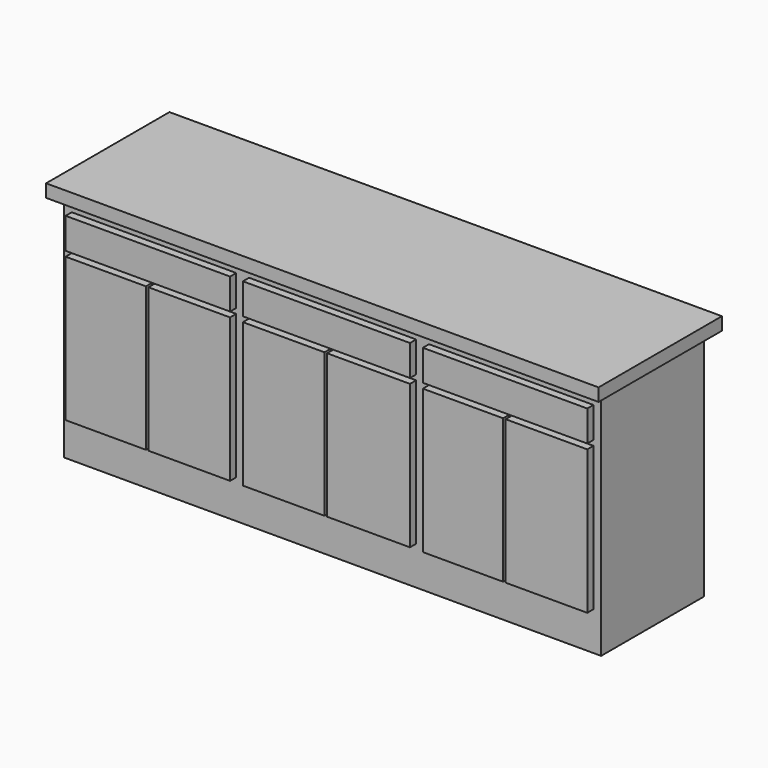
from build123d import *

# Parameters (mm, degrees)
F0_W     = 2150
F0_H     = 600
F1_DEPTH = 50
F2_W     = 2090
F2_H     = 500
F3_DEPTH = 900
F4_W     = 640
F4_H     = 120
F4_W_2   = 650
F4_W_3   = 312.5
F4_H_2   = 560
F4_W_4   = 317.5
F4_W_5   = 322.5
F5_DEPTH = 30
F6_W     = 2030
F6_H     = 900
F7_DEPTH = 200


with BuildPart() as f1:
    # F0 (on Top) → F1 (new body)
    with BuildSketch(Plane.XY):
        Rectangle(F0_W, F0_H)
    extrude(amount=F1_DEPTH)

    # F2 (on Top) → F3 (join)
    with BuildSketch(Plane.XY):
        Rectangle(F2_W, F2_H)
    extrude(amount=-F3_DEPTH)

    # F4 (on face) → F5 (join)
    with BuildSketch(Plane.XZ.offset(250)):
        with Locations((-695, -110)):
            Rectangle(F4_W, F4_H)
        with Locations((0, -110)):
            Rectangle(F4_W_2, F4_H)
        with Locations((695, -110)):
            Rectangle(F4_W, F4_H)
        with Locations((-858.75, -470)):
            Rectangle(F4_W_3, F4_H_2)
        with Locations((-533.75, -470)):
            Rectangle(F4_W_4, F4_H_2)
        with Locations((-166.25, -470)):
            Rectangle(F4_W_4, F4_H_2)
        with Locations((163.75, -470)):
            Rectangle(F4_W_5, F4_H_2)
        with Locations((531.25, -470)):
            Rectangle(F4_W_3, F4_H_2)
        with Locations((856.25, -470)):
            Rectangle(F4_W_4, F4_H_2)
    extrude(amount=F5_DEPTH)

    # F6 (on face) → F7 (cut)
    with BuildSketch(Plane(origin=(0, 250, 0), x_dir=(-1, 0, 0), z_dir=(0, 1, 0))):
        with Locations((0, -450)):
            Rectangle(F6_W, F6_H)
    extrude(amount=-F7_DEPTH, mode=Mode.SUBTRACT)


solid = f1.part
